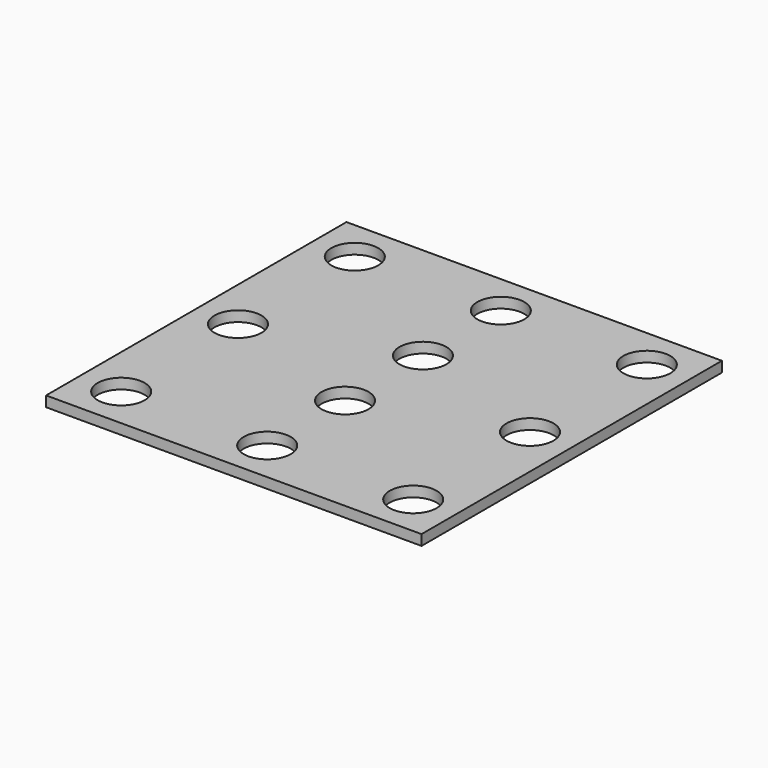
from build123d import *

# Parameters (mm, degrees)
F0_W     = 457.2
F0_H     = 457.2
F2_DEPTH = 6.35
F1_R     = 28.575
F3_DEPTH = 12.7


with BuildPart() as f2:
    # F0 (on Top) → F2 (new body, symmetric)
    with BuildSketch(Plane.XY):
        Rectangle(F0_W, F0_H)
    extrude(amount=F2_DEPTH, both=True)

    # F1 (on face) → F3 (cut, symmetric)
    with BuildSketch(Plane.XY):
        with Locations((-177.8, 177.8)):
            Circle(F1_R)
        with Locations((0, 177.8)):
            Circle(F1_R)
        with Locations((177.8, 177.8)):
            Circle(F1_R)
        with Locations((177.8, 0)):
            Circle(F1_R)
        with Locations((177.8, -177.8)):
            Circle(F1_R)
        with Locations((-177.8, 0)):
            Circle(F1_R)
        with Locations((-177.8, -177.8)):
            Circle(F1_R)
        with Locations((0, 59.266667)):
            Circle(F1_R)
        with Locations((0, -59.266667)):
            Circle(F1_R)
        with Locations((0, -177.8)):
            Circle(F1_R)
    extrude(amount=F3_DEPTH, both=True, mode=Mode.SUBTRACT)


solid = f2.part
